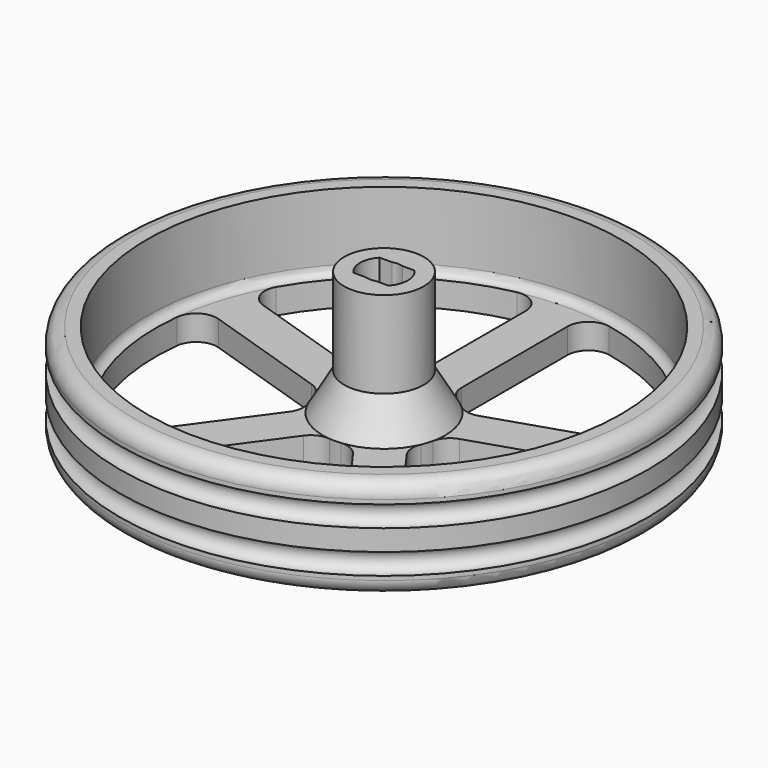
from build123d import *

# Parameters (mm, degrees)
POCKET_DEPTH       = 8.5
POCKET001_DEPTH    = 184.7133
POLARPATTERN_COUNT = 5


with BuildPart() as part:
    # Sketch → Revolution (revolve)
    with BuildSketch(Plane.XZ):
        with BuildLine():
            Line((2.05, 17.8), (4.75, 17.8))
            Line((4.75, 17.8), (4.75, 7.45))
            Line((4.75, 7.45), (7.319209, 3))
            Line((7.319209, 3), (27.25, 3))
            ThreePointArc((27.25, 3), (27.957107, 3.292893), (28.25, 4))
            Line((28.25, 4), (28.25, 12))
            Line((28.25, 12), (29.75, 12))
            ThreePointArc((31.5, 10.25), (30.987437, 11.487437), (29.75, 12))
            Line((31.5, 10.25), (31.5, 9.75))
            ThreePointArc((31.5, 9.75), (30.25, 8.5), (31.5, 7.25))
            Line((31.5, 7.25), (31.5, 4.75))
            ThreePointArc((31.5, 4.75), (30.25, 3.5), (31.5, 2.25))
            Line((31.5, 2.25), (31.5, 1.75))
            ThreePointArc((29.75, 0), (30.987437, 0.512563), (31.5, 1.75))
            Line((29.75, 0), (2.5, 0))
            Line((2.5, 5.05), (2.5, 0))
            Line((1.25, 6.3), (2.5, 5.05))
            Line((1.25, 9.3), (1.25, 6.3))
            Line((2.05, 9.3), (1.25, 9.3))
            Line((2.05, 9.3), (2.05, 17.8))
        make_face()
    revolve(axis=Axis((0, 0, 0), (0, 0, 1)))

    # Sketch001 (on Face2 of Revolution) → Pocket (cut)
    with BuildSketch(Plane(origin=(0, 0, 17.8), x_dir=(-1, 0, 0), z_dir=(0, 0, 1))):
        with BuildLine():
            ThreePointArc((-2.079268, 1.949139), (-2.85, -0.00118), (-2.077653, -1.950861))
            Line((-2.077653, -1.950861), (2.077653, -1.950861))
            ThreePointArc((2.077653, -1.950861), (2.85, -0.00118), (2.079268, 1.949139))
            Line((-2.079268, 1.949139), (2.079268, 1.949139))
        make_face()
    extrude(amount=-POCKET_DEPTH, mode=Mode.SUBTRACT)

    # Sketch005 (on Face12 of Pocket) → Pocket001 (cut, through all)
    with BuildSketch(Plane(origin=(0, 0, 3), x_dir=(-1, 0, 0), z_dir=(0, 0, 1))):
        with BuildLine():
            ThreePointArc((0.687405, 7.286857), (0, 7.319209), (-0.687405, 7.286857))
            ThreePointArc((-2.944742, 8.306344), (-1.951204, 7.497397), (-0.687405, 7.286857))
            Line((-2.944742, 8.306344), (-12.225189, 21.079783))
            ThreePointArc((-11.233217, 24.826948), (-12.619397, 23.189023), (-12.225189, 21.079783))
            ThreePointArc((11.233217, 24.826948), (0, 27.25), (-11.233217, 24.826948))
            ThreePointArc((12.225189, 21.079783), (12.619397, 23.189023), (11.233217, 24.826948))
            Line((2.944742, 8.306344), (12.225189, 21.079783))
            ThreePointArc((0.687405, 7.286857), (1.951204, 7.497397), (2.944742, 8.306344))
        make_face()
    pocket001 = extrude(amount=-POCKET001_DEPTH, mode=Mode.SUBTRACT)

    # PolarPattern: Pocket001 ×5 about axis
    polarpattern_axis = Axis((0, 0, 3), (0, 0, 1))
    for i in range(1, POLARPATTERN_COUNT):
        add(pocket001.rotate(polarpattern_axis, i * 360 / POLARPATTERN_COUNT), mode=Mode.SUBTRACT)


solid = part.part
